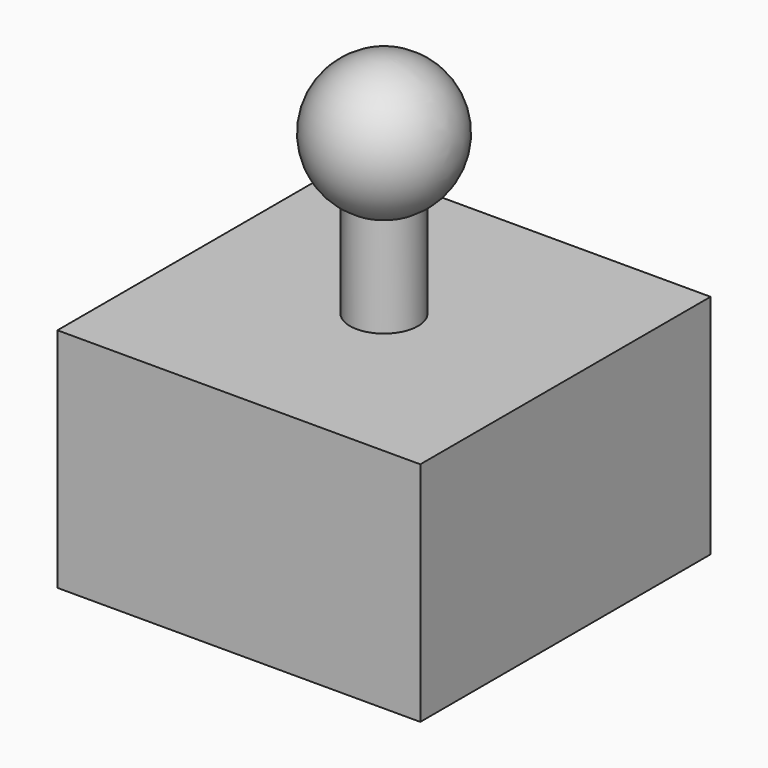
from build123d import *

# Parameters (mm, degrees)
BOX001_W       = 10
BOX001_H       = 10
BOX001_DEPTH   = 8
CYLINDER_R     = 1.5
CYLINDER_DEPTH = 5
BOX_W          = 16
BOX_H          = 16
BOX_DEPTH      = 10


with BuildPart() as cube001:
    # Box001 → Box001 (new body)
    with BuildSketch(Plane(origin=(-5, -5, 0), x_dir=(1, 0, 0), z_dir=(0, 0, 1))):
        with Locations((5, 5)):
            Rectangle(BOX001_W, BOX001_H)
    extrude(amount=BOX001_DEPTH)


with BuildPart() as cylinder:
    # Cylinder → Cylinder (new body)
    with BuildSketch(Plane.XY.offset(10)):
        Circle(CYLINDER_R)
    extrude(amount=CYLINDER_DEPTH)


with BuildPart() as sphere:
    # Sphere → Sphere (revolve)
    with BuildSketch(Plane(origin=(0, 0, 17), x_dir=(1, 0, 0), z_dir=(0, -1, 0))):
        with BuildLine():
            ThreePointArc((0, -3), (3, 0), (0, 3))
            Line((0, 3), (0, -3))
        make_face()
    revolve(axis=Axis((0, 0, 17), (0, 0, 1)))


with BuildPart() as cut:
    # Box → Box (new body)
    with BuildSketch(Plane(origin=(-8, -8, 0), x_dir=(1, 0, 0), z_dir=(0, 0, 1))):
        with Locations((8, 8)):
            Rectangle(BOX_W, BOX_H)
    extrude(amount=BOX_DEPTH)

    # Fusion: union Cylinder, Sphere
    add(cylinder.part)
    add(sphere.part)

    # Cut: cut Cube001
    add(cube001.part, mode=Mode.SUBTRACT)


solid = cut.part
